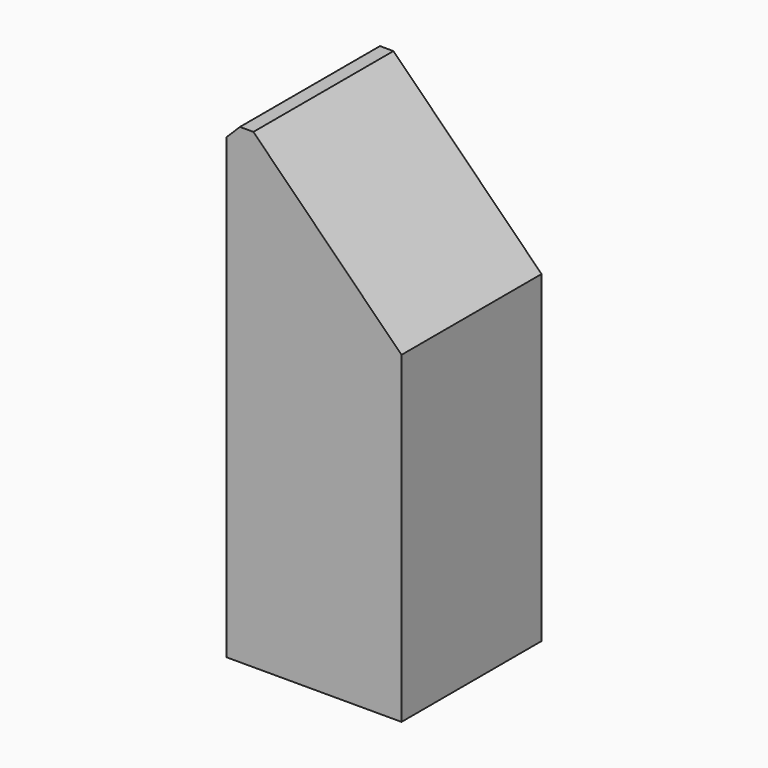
from build123d import *

# Parameters (mm, degrees)
F0_W      = 65
F0_H      = 65
F1_DEPTH  = 350
F3_DEPTH  = 65.001
F4_W      = 75
F4_H      = 65
F5_DEPTH  = 2
F6_W      = 65
F6_H      = 75
F7_DEPTH  = 2
F10_DEPTH = 65.001


with BuildPart() as f1:
    # F0 (on Top) → F1 (new body)
    with BuildSketch(Plane.XY):
        Rectangle(F0_W, F0_H)
    extrude(amount=F1_DEPTH)

    # F2 (on face) → F3 (cut, through all)
    with BuildSketch(Plane.XZ.offset(32.5)):
        Polygon((-22.5, 175), (32.5, 120), (32.5, 230), align=None)
        Polygon((-32.5, 180), (-32.5, 170), (-27.5, 175), align=None)
    extrude(amount=-F3_DEPTH, mode=Mode.SUBTRACT)

    # F9 (on face) → F10 (cut, through all)
    with BuildSketch(Plane.XZ.offset(32.5)):
        Polygon((-32.5, 180), (-27.5, 175), (-22.5, 175), (32.5, 230), (32.5, 350), (-32.5, 350), align=None)
    extrude(amount=-F10_DEPTH, mode=Mode.SUBTRACT)


with BuildPart() as f5:
    # F4 (on face) → F5 (new body)
    with BuildSketch(Plane(origin=(76.25, 0, 76.25), x_dir=(0.7071067812, 0, -0.7071067812), z_dir=(0.7071067812, 0, 0.7071067812))):
        with Locations((-99.3718433538, 0)):
            Rectangle(F4_W, F4_H)
    extrude(amount=F5_DEPTH)


with BuildPart() as f7:
    # F6 (on face) → F7 (new body)
    with BuildSketch(Plane(origin=(-98.75, 0, 98.75), x_dir=(0, 1, 0), z_dir=(0.7071067812, 0, -0.7071067812))):
        with Locations((0, 148.1155300615)):
            Rectangle(F6_W, F6_H)
    extrude(amount=F7_DEPTH)


solid = f1.part
